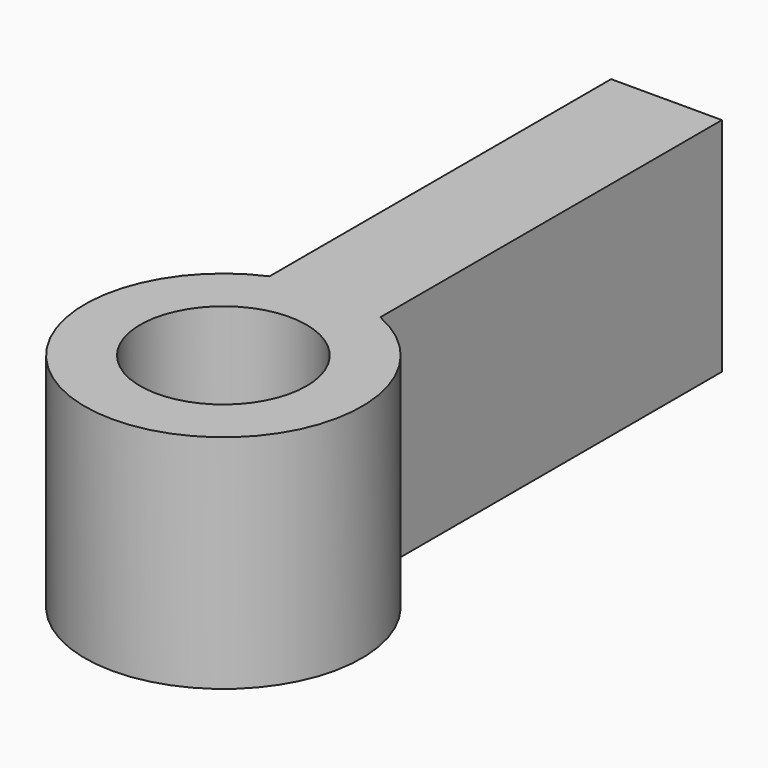
from build123d import *

# Parameters (mm, degrees)
F0_R     = 25
F1_DEPTH = 40
F2_W     = 20
F2_H     = 40
F3_DEPTH = 100
F4_R     = 15
F5_DEPTH = 43


with BuildPart() as f1:
    # F0 (on Top) → F1 (new body)
    with BuildSketch(Plane.XY):
        Circle(F0_R)
    extrude(amount=F1_DEPTH)

    # F2 (on Front) → F3 (join)
    with BuildSketch(Plane.XZ):
        with Locations((0, 20)):
            Rectangle(F2_W, F2_H)
    extrude(amount=-F3_DEPTH)

    # F4 (on face) → F5 (cut)
    with BuildSketch(Plane.XY.offset(40)):
        Circle(F4_R)
    extrude(amount=-F5_DEPTH, mode=Mode.SUBTRACT)


solid = f1.part
